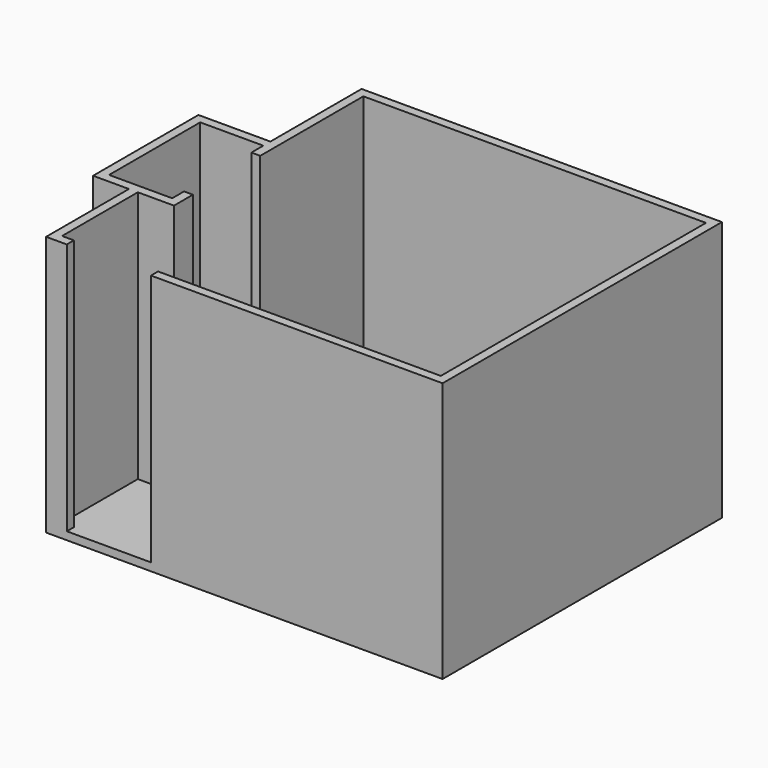
from build123d import *

# Parameters (mm, degrees)
F1_DEPTH = 2438.4
F3_DEPTH = 76.2


with BuildPart() as f1:
    # F0 (on Top) → F1 (new body)
    with BuildSketch(Plane.XY):
        Polygon((114.3, 0), (0, 0), (0, 914.4), (349.25, 914.4), (349.25, 1143), (263.525, 1143), (263.525, 1000.125), (-85.725, 1000.125), (-346.075, 1000.125), (-346.075, 2099.945), (263.525, 2099.945), (263.525, 1955.8), (349.25, 1955.8), (349.25, 2641.6), (349.25, 2743.2), (349.25, 3200.4), (1219.2, 3200.4), (3657.6, 3200.4), (3657.6, 0), (3203.849826, 0), (2797.449826, 0), (2743.2, 0), (1066.8, 0), (927.1, 0), (927.1, -85.725), (3743.325, -85.725), (3743.325, 3286.125), (263.525, 3286.125), (263.525, 2629.454412), (263.525, 2185.67), (-431.8, 2185.67), (-431.8, 914.4), (-85.725, 914.4), (-85.725, -85.725), (114.3, -85.725), align=None)
    extrude(amount=F1_DEPTH)

    # F2 (on face) → F3 (join)
    with BuildSketch(Plane(origin=(0, 0, 0), x_dir=(1, 0, 0), z_dir=(0, 0, -1))):
        Polygon((3743.325, 85.725), (-85.725, 85.725), (-85.725, -914.4), (-431.8, -914.4), (-431.8, -2185.67), (263.525, -2185.67), (263.525, -3286.125), (3743.325, -3286.125), align=None)
    extrude(amount=F3_DEPTH)


solid = f1.part
